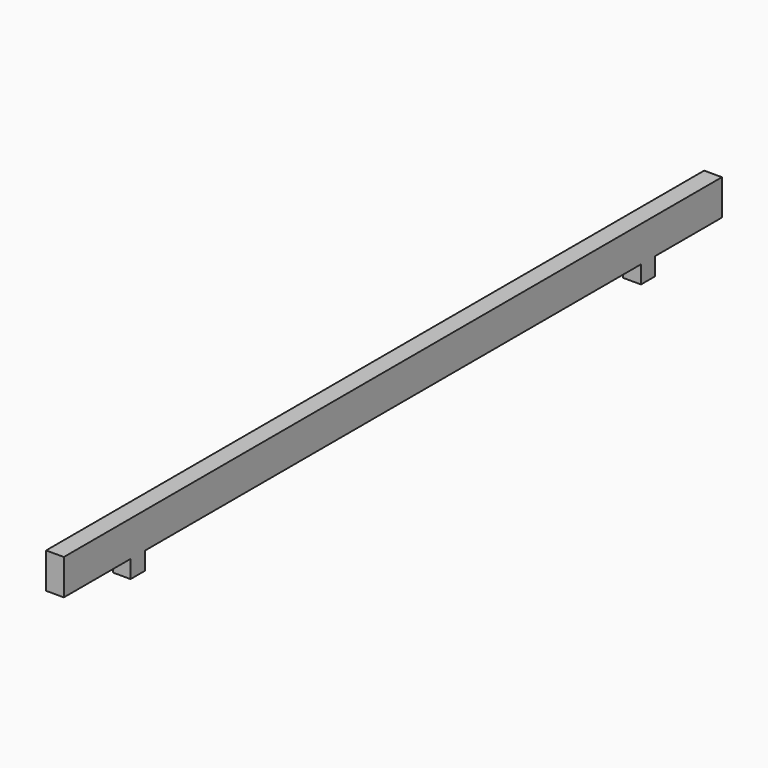
from build123d import *

# Parameters (mm, degrees)
F0_W     = 160
F0_H     = 320
F1_DEPTH = 7400
F2_W     = 160
F2_H     = 160
F3_DEPTH = 160


with BuildPart() as f1:
    # F0 (on Front) → F1 (new body)
    with BuildSketch(Plane.XZ):
        with Locations((80, -160)):
            Rectangle(F0_W, F0_H)
    extrude(amount=F1_DEPTH)

    # F2 (on face) → F3 (join)
    with BuildSketch(Plane(origin=(0, 0, -320), x_dir=(1, 0, 0), z_dir=(0, 0, -1))):
        with Locations((80, 6570)):
            Rectangle(F2_W, F2_H)
        with Locations((80, 830)):
            Rectangle(F2_W, F2_H)
    extrude(amount=F3_DEPTH)


solid = f1.part
